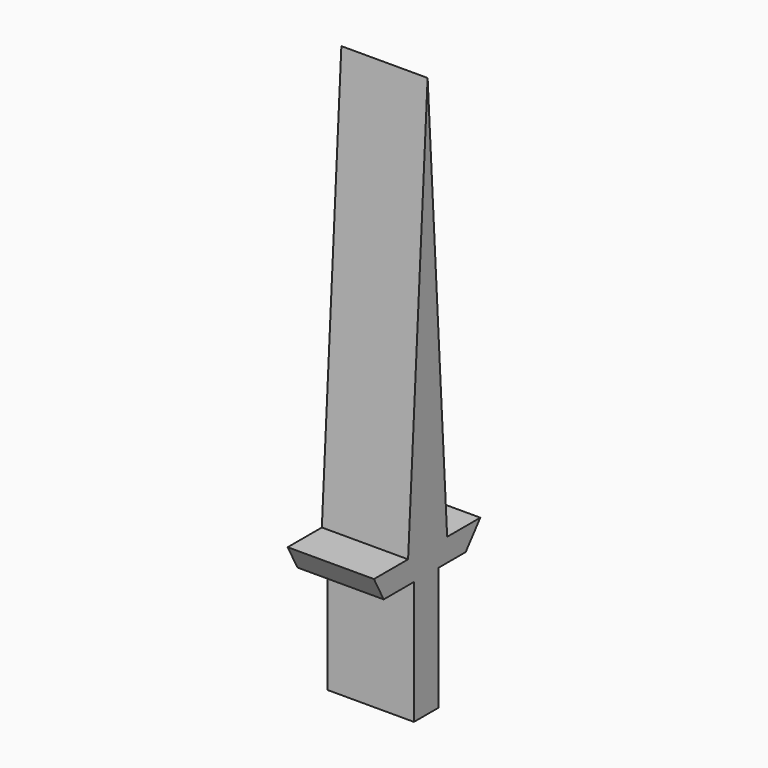
from build123d import *

# Parameters (mm, degrees)
F1_DEPTH = 14


with BuildPart() as f1:
    # F0 (on Right) → F1 (new body)
    with BuildSketch(Plane.YZ):
        Polygon((0, 67.1702846885), (-3.9611454122, 0), (3.9611454122, 0), align=None)
        Polygon((-3.9611454122, 0), (-10.8912242576, 0), (-8.911200799, -3.7145202514), (-2.7731307782, -3.7145202514), (2.17692554, -3.7145202514), (7.7209877782, -3.7145202514), (10.6910206378, 0), (3.9611454122, 0), align=None)
        Polygon((2.17692554, -3.7145202514), (-2.7731307782, -3.7145202514), (-0.343102162, -5.0753362993), align=None)
        Polygon((-0.343102162, -5.0753362993), (-2.7731307782, -6.3875528021), (-0.0231002569, -7.7625671073), (2.17692554, -6.4865518361), align=None)
        Polygon((-0.343102162, -5.0753362993), (-2.7731307782, -3.7145202514), (-2.7731307782, -6.3875528021), align=None)
        Polygon((2.17692554, -6.4865518361), (2.17692554, -3.7145202514), (-0.343102162, -5.0753362993), align=None)
        Polygon((-0.0231002569, -7.7625671073), (-2.7731307782, -6.3875528021), (-2.7731307782, -9.357585196), align=None)
        Polygon((2.17692554, -8.8625792414), (2.17692554, -6.4865518361), (-0.0231002569, -7.7625671073), align=None)
        Polygon((-0.0231002569, -7.7625671073), (-2.7731307782, -9.357585196), (-0.4283671716, -10.5299661847), (2.17692554, -8.8625792414), align=None)
        Polygon((-0.4283671716, -10.5299661847), (-2.7731307782, -9.357585196), (-2.7731307782, -12.03061454), align=None)
        Polygon((2.17692554, -11.8326116353), (2.17692554, -8.8625792414), (-0.4283671716, -10.5299661847), align=None)
        Polygon((-0.4283671716, -10.5299661847), (-2.7731307782, -12.03061454), (-0.4356046237, -12.8253733556), (2.17692554, -11.8326116353), align=None)
        Polygon((2.17692554, -13.7136335252), (2.17692554, -11.8326116353), (-0.4356046237, -12.8253733556), align=None)
        Polygon((-0.4356046237, -12.8253733556), (-2.7731307782, -12.03061454), (-2.7731307782, -13.7136335252), align=None)
        Polygon((-0.2981026191, -15.3449020034), (-2.7731307782, -13.7136335252), (-2.7731307782, -16.9761704816), align=None)
        Polygon((2.17692554, -16.9761704816), (2.17692554, -13.7136335252), (-0.2981026191, -15.3449020034), align=None)
        Polygon((-0.2981026191, -15.3449020034), (-2.7731307782, -16.9761704816), (-0.2981026191, -18.364436113), (2.17692554, -16.9761704816), align=None)
        Polygon((-0.2981026191, -18.364436113), (-2.7731307782, -16.9761704816), (-2.7731307782, -19.7527017444), align=None)
        Polygon((2.17692554, -19.7527017444), (2.17692554, -16.9761704816), (-0.2981026191, -18.364436113), align=None)
        Polygon((-0.2981026191, -20.5447105691), (-2.7731307782, -19.7527017444), (-2.7731307782, -21.3367193937), align=None)
        Polygon((-0.2981026191, -18.364436113), (-2.7731307782, -19.7527017444), (-0.2981026191, -20.5447105691), (2.17692554, -19.7527017444), align=None)
        Polygon((2.17692554, -21.3367193937), (2.17692554, -19.7527017444), (-0.2981026191, -20.5447105691), align=None)
        Polygon((-0.2981026191, -20.5447105691), (-2.7731307782, -21.3367193937), (-0.2981026191, -22.5247330964), (2.17692554, -21.3367193937), align=None)
        Polygon((-0.2981026191, -22.5247330964), (-2.7731307782, -21.3367193937), (-2.7731307782, -23.712746799), align=None)
        Polygon((-0.2981026191, -22.5247330964), (-2.7731307782, -23.712746799), (2.17692554, -23.712746799), align=None)
        Polygon((2.17692554, -23.712746799), (2.17692554, -21.3367193937), (-0.2981026191, -22.5247330964), align=None)
        Polygon((-0.4356046237, -12.8253733556), (-2.7731307782, -13.7136335252), (-0.2981026191, -15.3449020034), (2.17692554, -13.7136335252), align=None)
    extrude(amount=F1_DEPTH)


solid = f1.part
